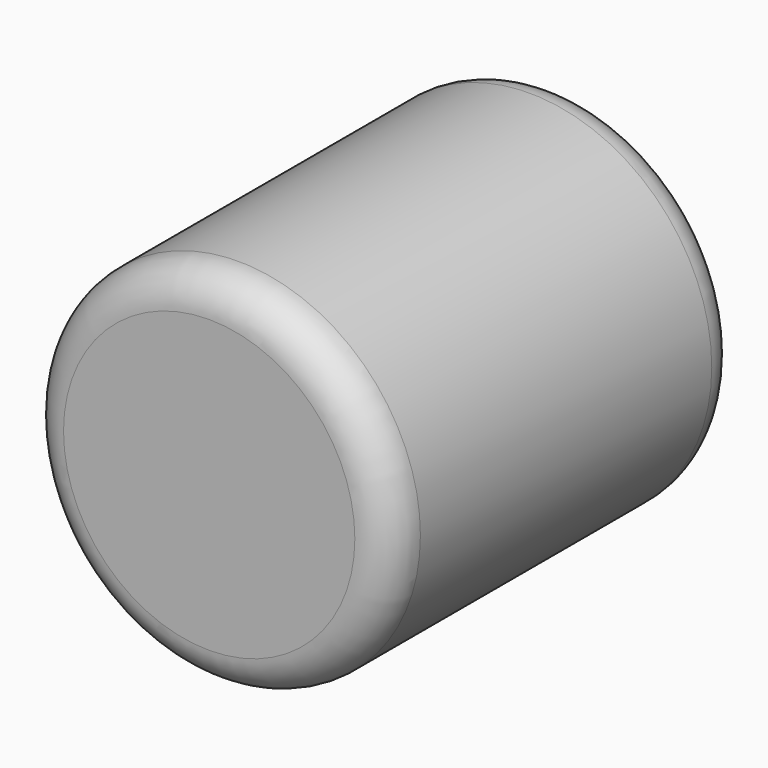
from build123d import *

# Parameters (mm, degrees)
F0_R     = 100
F1_DEPTH = 120
F2_R     = 20


with BuildPart() as f1:
    # F0 (on Front) → F1 (new body)
    with BuildSketch(Plane.XZ):
        Circle(F0_R)
    extrude(amount=F1_DEPTH)

    # F2
    f2_edges = [f1.edges().sort_by_distance(p)[0] for p in [
        (-100, -120, 0),
    ]]
    fillet(f2_edges, radius=F2_R)

    # F3: F1 across face


with BuildPart() as f1_1:
    add(f1.part)
    add(f1.part.mirror(Plane(origin=(0, 0, 0), x_dir=(1, 0, 0), z_dir=(0, 1, 0))))


solid = f1_1.part
